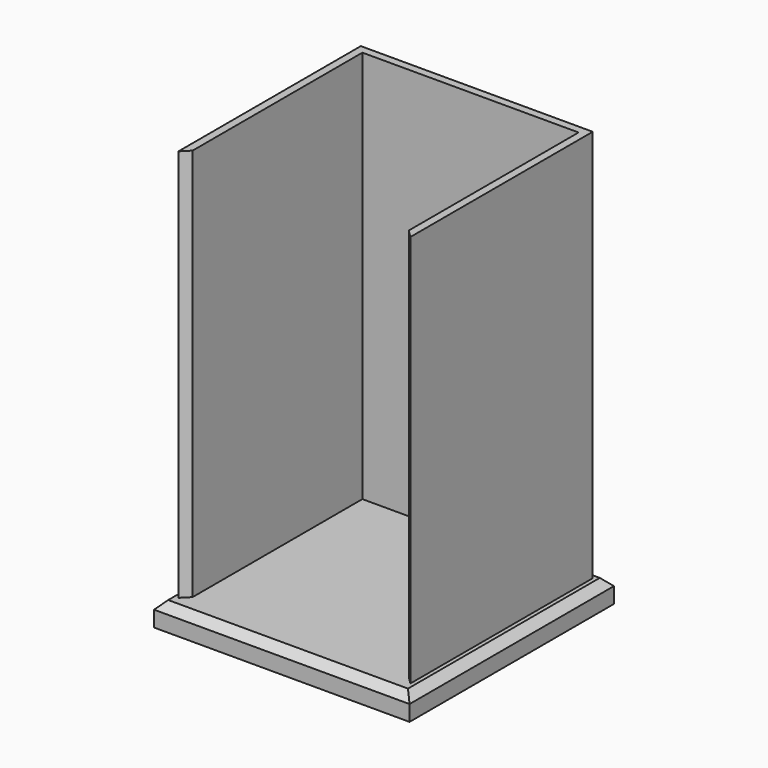
from build123d import *

# Parameters (mm, degrees)
F0_W     = 65
F0_H     = 65
F1_DEPTH = 6
F2_SIZE  = 2
F4_DEPTH = 100


with BuildPart() as f1:
    # F0 (on Top) → F1 (new body)
    with BuildSketch(Plane.XY):
        Rectangle(F0_W, F0_H)
    extrude(amount=F1_DEPTH)

    # F2
    f2_edges = [f1.edges().sort_by_distance(p)[0] for p in [
        (0, -32.5, 6),
        (32.5, 0, 6),
        (0, 32.5, 6),
        (-32.5, 0, 6),
    ]]
    chamfer(f2_edges, length=F2_SIZE)

    # F3 (on face) → F4 (join)
    with BuildSketch(Plane.XY.offset(6)):
        Polygon((27.5, -26.5), (29.5, -28.5), (29.5, 29.5), (-29.5, 29.5), (-29.5, -28.5), (-27.5, -26.5), (-27.5, 27.5), (27.5, 27.5), align=None)
    extrude(amount=F4_DEPTH)


solid = f1.part
